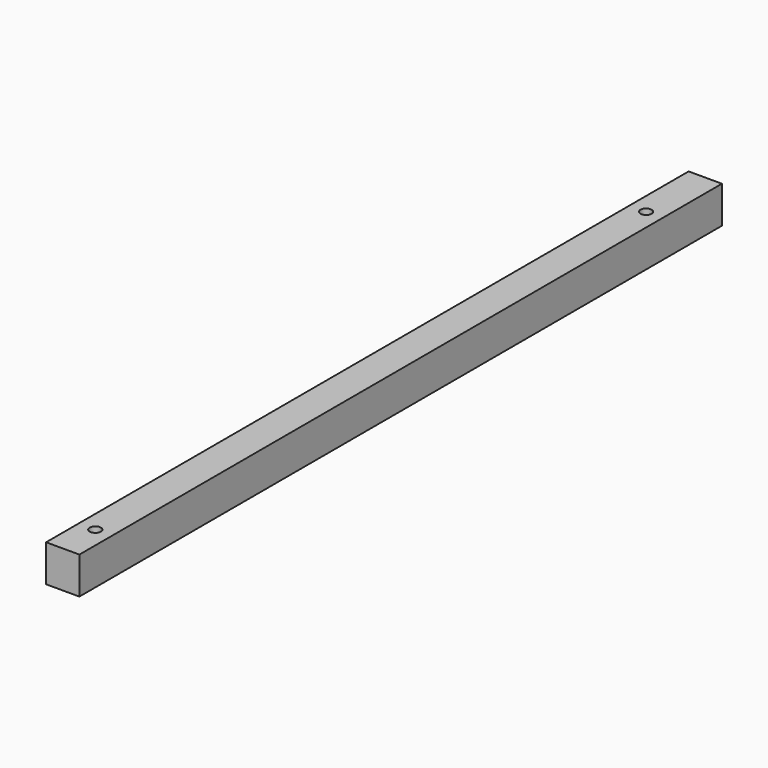
from build123d import *

# Parameters (mm, degrees)
F0_W     = 18
F0_H     = 434
F1_DEPTH = 10
F2_R     = 3
F3_DEPTH = 15


with BuildPart() as f1:
    # F0 (on Top) → F1 (new body, symmetric)
    with BuildSketch(Plane.XY):
        Rectangle(F0_W, F0_H)
    extrude(amount=F1_DEPTH, both=True)

    # F2 (on face) → F3 (cut)
    with BuildSketch(Plane.XY.offset(10)):
        with Locations((0, -195)):
            Circle(F2_R)
        with Locations((0, 177)):
            Circle(F2_R)
    extrude(amount=-F3_DEPTH, mode=Mode.SUBTRACT)


solid = f1.part
